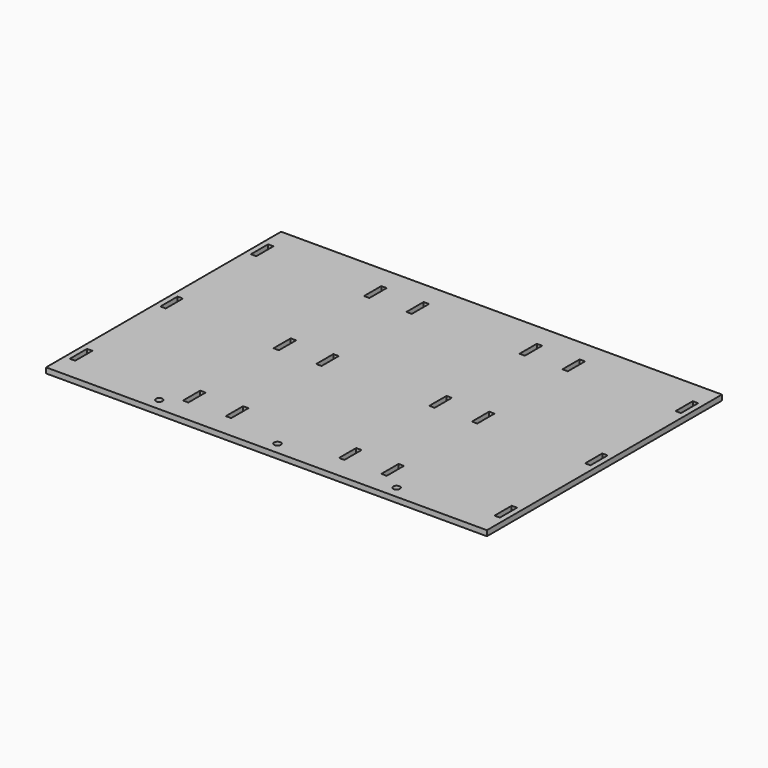
from build123d import *

# Parameters (mm, degrees)
F0_W     = 6.35
F0_H     = 25.4
F0_R     = 3.96875
F1_DEPTH = 6.35


with BuildPart() as f1:
    # F0 (on Top) → F1 (new body)
    with BuildSketch(Plane.XY):
        Polygon((254, 146.3802), (254, 173.5), (-254, 173.5), (-260.35, 173.5), (-260.35, -173.5), (-254, -173.5), (254, -173.5), (254, -146.3802), (247.65, -146.3802), (247.65, -120.9802), (254, -120.9802), (254, -12.7), (247.65, -12.7), (247.65, 12.7), (254, 12.7), (254, 120.9802), (247.65, 120.9802), (247.65, 146.3802), align=None)
        with Locations((-250.825, -133.6802)):
            Rectangle(F0_W, F0_H, mode=Mode.SUBTRACT)
        with Locations((-138.1125, -159.2125)):
            Circle(F0_R, mode=Mode.SUBTRACT)
        with Locations((-117.175, -133.6802)):
            Rectangle(F0_W, F0_H, mode=Mode.SUBTRACT)
        with Locations((-66.825, -133.2992)):
            Rectangle(F0_W, F0_H, mode=Mode.SUBTRACT)
        with Locations((-250.825, 0)):
            Rectangle(F0_W, F0_H, mode=Mode.SUBTRACT)
        with Locations((-117.175, 0)):
            Rectangle(F0_W, F0_H, mode=Mode.SUBTRACT)
        with Locations((-66.825, 0)):
            Rectangle(F0_W, F0_H, mode=Mode.SUBTRACT)
        with Locations((1.5875, -159.2125)):
            Circle(F0_R, mode=Mode.SUBTRACT)
        with Locations((66.825, -133.2992)):
            Rectangle(F0_W, F0_H, mode=Mode.SUBTRACT)
        with Locations((117.175, -133.6802)):
            Rectangle(F0_W, F0_H, mode=Mode.SUBTRACT)
        with Locations((142.24, -159.2125)):
            Circle(F0_R, mode=Mode.SUBTRACT)
        with Locations((66.825, 0)):
            Rectangle(F0_W, F0_H, mode=Mode.SUBTRACT)
        with Locations((117.175, 0)):
            Rectangle(F0_W, F0_H, mode=Mode.SUBTRACT)
        with Locations((-250.825, 133.6802)):
            Rectangle(F0_W, F0_H, mode=Mode.SUBTRACT)
        with Locations((-117.175, 133.6802)):
            Rectangle(F0_W, F0_H, mode=Mode.SUBTRACT)
        with Locations((-66.825, 133.2992)):
            Rectangle(F0_W, F0_H, mode=Mode.SUBTRACT)
        with Locations((66.825, 133.2992)):
            Rectangle(F0_W, F0_H, mode=Mode.SUBTRACT)
        with Locations((117.175, 133.6802)):
            Rectangle(F0_W, F0_H, mode=Mode.SUBTRACT)
        Polygon((260.35, 173.5), (254, 173.5), (254, 146.3802), (254, 120.9802), (254, 12.7), (254, -12.7), (254, -120.9802), (254, -146.3802), (254, -173.5), (260.35, -173.5), align=None)
    extrude(amount=F1_DEPTH)


solid = f1.part
